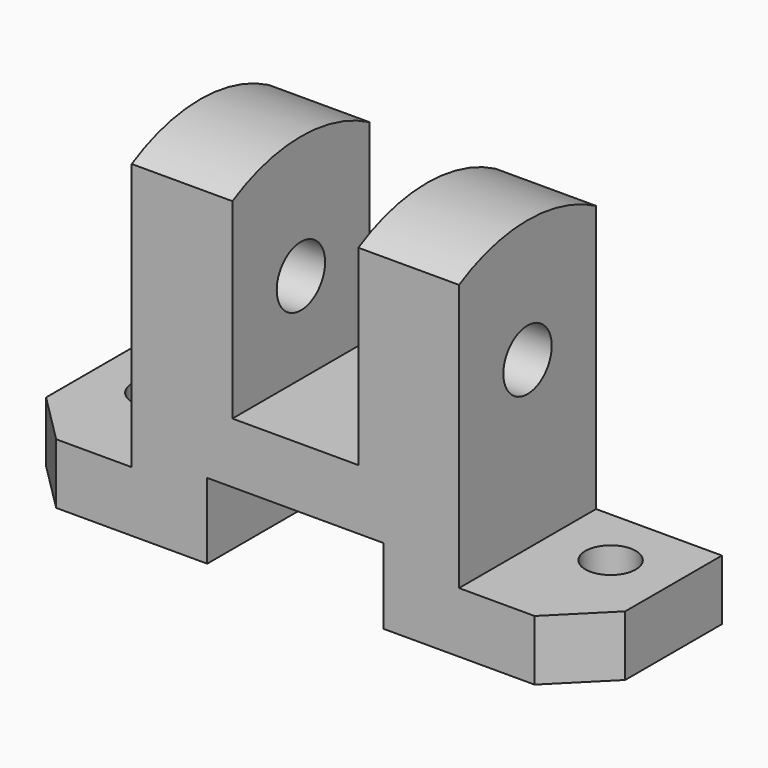
from build123d import *

# Parameters (mm, degrees)
PAD_DEPTH       = 17
CHAMFER_SIZE    = 10
CHAMFER001_SIZE = 10
SKETCH001_R     = 5
POCKET_DEPTH    = 12.001
PAD001_DEPTH    = 20
PAD002_DEPTH    = 20
SKETCH004_R     = 6
POCKET001_DEPTH = 90.001


with BuildPart() as part:
    # Sketch → Pad (new body, symmetric)
    with BuildSketch(Plane.XZ):
        Polygon((-57.5, 0), (-17.5, 0), (-17.5, 15), (17.5, 15), (17.5, 0), (57.5, 0), (57.5, 12), (32.5, 12), (32.5, 65), (12.5, 65), (12.5, 27), (-12.5, 27), (-12.5, 65), (-32.5, 65), (-32.5, 12), (-57.5, 12), align=None)
    extrude(amount=PAD_DEPTH, both=True)

    # Chamfer
    chamfer_edges = [part.edges().sort_by_distance(p)[0] for p in [
        (57.5, -17, 6),
    ]]
    chamfer(chamfer_edges, length=CHAMFER_SIZE)

    # Chamfer001
    chamfer001_edges = [part.edges().sort_by_distance(p)[0] for p in [
        (-57.5, -17, 6),
    ]]
    chamfer(chamfer001_edges, length=CHAMFER001_SIZE)

    # Sketch001 → Pocket (cut, through all)
    with BuildSketch(Plane(origin=(0, 0, 12), x_dir=(-1, 0, 0), z_dir=(0, 0, 1))):
        with Locations((45, -5)):
            Circle(SKETCH001_R)
        with Locations((-45, -5)):
            Circle(SKETCH001_R)
    extrude(amount=-POCKET_DEPTH, mode=Mode.SUBTRACT)

    # Sketch002 → Pad001 (new body)
    with BuildSketch(Plane(origin=(32.5, 0, 0), x_dir=(0, 0, 1), z_dir=(1, 0, 0))):
        with BuildLine():
            ThreePointArc((65, -17), (69.405883, 0), (65, 17))
            Line((65, 17), (65, -17))
        make_face()
    extrude(amount=-PAD001_DEPTH)

    # Sketch003 → Pad002 (new body)
    with BuildSketch(Plane(origin=(-32.5, 0, 0), x_dir=(0, 0, -1), z_dir=(-1, 0, 0))):
        with BuildLine():
            ThreePointArc((-65, 17), (-69.405883, 0), (-65, -17))
            Line((-65, 17), (-65, -17))
        make_face()
    extrude(amount=-PAD002_DEPTH)

    # Sketch004 → Pocket001 (cut, through all)
    with BuildSketch(Plane(origin=(32.5, 0, 0), x_dir=(0, 0, 1), z_dir=(1, 0, 0))):
        with Locations((45, 0)):
            Circle(SKETCH004_R)
    extrude(amount=-POCKET001_DEPTH, mode=Mode.SUBTRACT)


solid = part.part
